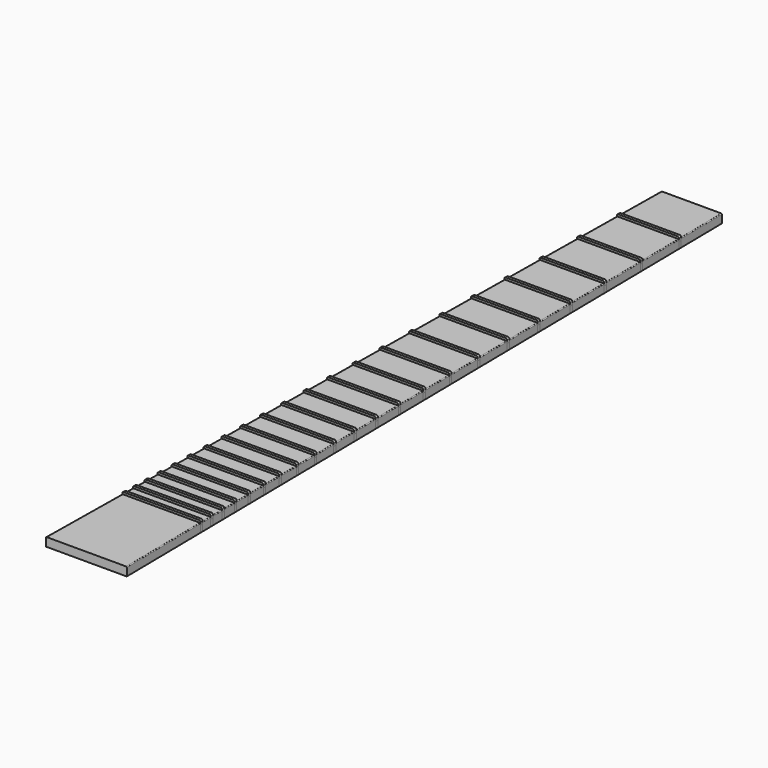
from build123d import *

# Parameters (mm, degrees)
F1_DEPTH = 6
F2_DEPTH = 1.5
F3_R     = 0.5
F5_R     = 1
F5_2_R   = 1
F5_3_R   = 1
F5_4_R   = 1
F5_5_R   = 1
F5_6_R   = 1
F5_7_R   = 1
F5_8_R   = 1
F5_9_R   = 1
F5_10_R  = 1
F5_11_R  = 1
F5_12_R  = 1
F5_13_R  = 1
F5_14_R  = 1
F5_15_R  = 1
F5_16_R  = 1
F5_17_R  = 1
F5_18_R  = 1
F5_19_R  = 1
F5_20_R  = 1
F5_21_R  = 1
F5_22_R  = 1


with BuildPart() as f1:
    # F0 (on Top) → F1 (new body)
    with BuildSketch(Plane.XY):
        Polygon((21, 525), (0, 525), (-21, 525), (-21.48, 489), (0, 489), (21.48, 489), align=None)
        Polygon((0, 489), (-21.48, 489), (-21.5066666667, 487), (0, 487), (21.5066666667, 487), (21.48, 489), align=None)
        Polygon((0, 487), (-21.5066666667, 487), (-21.9333333333, 455), (0, 455), (21.9333333333, 455), (21.5066666667, 487), align=None)
        Polygon((0, 455), (-21.9333333333, 455), (-21.96, 453), (0, 453), (21.96, 453), (21.9333333333, 455), align=None)
        Polygon((0, 453), (-21.96, 453), (-22.36, 423), (0, 423), (22.36, 423), (21.96, 453), align=None)
        Polygon((0, 423), (-22.36, 423), (-22.3866666667, 421), (0, 421), (22.3866666667, 421), (22.36, 423), align=None)
        Polygon((0, 421), (-22.3866666667, 421), (-22.76, 393), (0, 393), (22.76, 393), (22.3866666667, 421), align=None)
        Polygon((0, 393), (-22.76, 393), (-22.7866666667, 391), (0, 391), (22.7866666667, 391), (22.76, 393), align=None)
        Polygon((0, 391), (-22.7866666667, 391), (-23.14, 364.5), (0, 364.5), (23.14, 364.5), (22.7866666667, 391), align=None)
        Polygon((0, 364.5), (-23.14, 364.5), (-23.1666666667, 362.5), (0, 362.5), (23.1666666667, 362.5), (23.14, 364.5), align=None)
        Polygon((0, 362.5), (-23.1666666667, 362.5), (-23.5, 337.5), (0, 337.5), (23.5, 337.5), (23.1666666667, 362.5), align=None)
        Polygon((0, 337.5), (-23.5, 337.5), (-23.5266666667, 335.5), (0, 335.5), (23.5266666667, 335.5), (23.5, 337.5), align=None)
        Polygon((0, 335.5), (-23.5266666667, 335.5), (-23.8466666667, 311.5), (0, 311.5), (23.8466666667, 311.5), (23.5266666667, 335.5), align=None)
        Polygon((0, 311.5), (-23.8466666667, 311.5), (-23.8733333333, 309.5), (0, 309.5), (23.8733333333, 309.5), (23.8466666667, 311.5), align=None)
        Polygon((0, 309.5), (-23.8733333333, 309.5), (-24.18, 286.5), (0, 286.5), (24.18, 286.5), (23.8733333333, 309.5), align=None)
        Polygon((0, 286.5), (-24.18, 286.5), (-24.2066666667, 284.5), (0, 284.5), (24.2066666667, 284.5), (24.18, 286.5), align=None)
        Polygon((0, 284.5), (-24.2066666667, 284.5), (-24.4866666667, 263.5), (0, 263.5), (24.4866666667, 263.5), (24.2066666667, 284.5), align=None)
        Polygon((0, 263.5), (-24.4866666667, 263.5), (-24.5133333333, 261.5), (0, 261.5), (24.5133333333, 261.5), (24.4866666667, 263.5), align=None)
        Polygon((0, 261.5), (-24.5133333333, 261.5), (-24.78, 241.5), (0, 241.5), (24.78, 241.5), (24.5133333333, 261.5), align=None)
        Polygon((0, 241.5), (-24.78, 241.5), (-24.8066666667, 239.5), (0, 239.5), (24.8066666667, 239.5), (24.78, 241.5), align=None)
        Polygon((0, 239.5), (-24.8066666667, 239.5), (-25.0466666667, 221.5), (0, 221.5), (25.0466666667, 221.5), (24.8066666667, 239.5), align=None)
        Polygon((0, 221.5), (-25.0466666667, 221.5), (-25.0733333333, 219.5), (0, 219.5), (25.0733333333, 219.5), (25.0466666667, 221.5), align=None)
        Polygon((0, 219.5), (-25.0733333333, 219.5), (-25.3, 202.5), (0, 202.5), (25.3, 202.5), (25.0733333333, 219.5), align=None)
        Polygon((0, 202.5), (-25.3, 202.5), (-25.3266666667, 200.5), (0, 200.5), (25.3266666667, 200.5), (25.3, 202.5), align=None)
        Polygon((0, 200.5), (-25.3266666667, 200.5), (-25.54, 184.5), (0, 184.5), (25.54, 184.5), (25.3266666667, 200.5), align=None)
        Polygon((0, 184.5), (-25.54, 184.5), (-25.5666666667, 182.5), (0, 182.5), (25.5666666667, 182.5), (25.54, 184.5), align=None)
        Polygon((0, 182.5), (-25.5666666667, 182.5), (-25.7666666667, 167.5), (0, 167.5), (25.7666666667, 167.5), (25.5666666667, 182.5), align=None)
        Polygon((0, 167.5), (-25.7666666667, 167.5), (-25.7933333333, 165.5), (0, 165.5), (25.7933333333, 165.5), (25.7666666667, 167.5), align=None)
        Polygon((0, 165.5), (-25.7933333333, 165.5), (-25.98, 151.5), (0, 151.5), (25.98, 151.5), (25.7933333333, 165.5), align=None)
        Polygon((0, 151.5), (-25.98, 151.5), (-26.0066666667, 149.5), (0, 149.5), (26.0066666667, 149.5), (25.98, 151.5), align=None)
        Polygon((0, 149.5), (-26.0066666667, 149.5), (-26.18, 136.5), (0, 136.5), (26.18, 136.5), (26.0066666667, 149.5), align=None)
        Polygon((0, 136.5), (-26.18, 136.5), (-26.2066666667, 134.5), (0, 134.5), (26.2066666667, 134.5), (26.18, 136.5), align=None)
        Polygon((0, 134.5), (-26.2066666667, 134.5), (-26.3666666667, 122.5), (0, 122.5), (26.3666666667, 122.5), (26.2066666667, 134.5), align=None)
        Polygon((0, 122.5), (-26.3666666667, 122.5), (-26.3933333333, 120.5), (0, 120.5), (26.3933333333, 120.5), (26.3666666667, 122.5), align=None)
        Polygon((0, 120.5), (-26.3933333333, 120.5), (-26.5466666667, 109), (0, 109), (26.5466666667, 109), (26.3933333333, 120.5), align=None)
        Polygon((0, 109), (-26.5466666667, 109), (-26.5733333333, 107), (0, 107), (26.5733333333, 107), (26.5466666667, 109), align=None)
        Polygon((0, 107), (-26.5733333333, 107), (-26.7066666667, 97), (0, 97), (26.7066666667, 97), (26.5733333333, 107), align=None)
        Polygon((0, 97), (-26.7066666667, 97), (-26.7333333333, 95), (0, 95), (26.7333333333, 95), (26.7066666667, 97), align=None)
        Polygon((0, 95), (-26.7333333333, 95), (-26.8533333333, 86), (0, 86), (26.8533333333, 86), (26.7333333333, 95), align=None)
        Polygon((0, 86), (-26.8533333333, 86), (-26.88, 84), (0, 84), (26.88, 84), (26.8533333333, 86), align=None)
        Polygon((0, 84), (-26.88, 84), (-26.9866666667, 76), (0, 76), (26.9866666667, 76), (26.88, 84), align=None)
        Polygon((0, 76), (-26.9866666667, 76), (-27.0133333333, 74), (0, 74), (27.0133333333, 74), (26.9866666667, 76), align=None)
        Polygon((0, 74), (-27.0133333333, 74), (-27.1066666667, 67), (0, 67), (27.1066666667, 67), (27.0133333333, 74), align=None)
        Polygon((0, 67), (-27.1066666667, 67), (-27.1333333333, 65), (0, 65), (27.1333333333, 65), (27.1066666667, 67), align=None)
        Polygon((0, 65), (-27.1333333333, 65), (-28, 0), (0, 0), (28, 0), (27.1333333333, 65), align=None)
    extrude(amount=-F1_DEPTH)

    # F3
    f3_edges = [f1.edges().sort_by_distance(p)[0] for p in [
        (-24.5, 262.5, 0),
        (24.5, 262.5, 0),
    ]]
    fillet(f3_edges, radius=F3_R)


with BuildPart() as f2:
    # F0 (on Top) → F2 (new body, symmetric)
    with BuildSketch(Plane.XY):
        Polygon((0, 489), (-21.48, 489), (-21.5066666667, 487), (0, 487), (21.5066666667, 487), (21.48, 489), align=None)
    extrude(amount=F2_DEPTH, both=True)


with BuildPart() as f2b:
    # F0 (on Top) → F2, piece 2 (new body, symmetric)
    with BuildSketch(Plane.XY):
        Polygon((0, 455), (-21.9333333333, 455), (-21.96, 453), (0, 453), (21.96, 453), (21.9333333333, 455), align=None)
    extrude(amount=F2_DEPTH, both=True)


with BuildPart() as f2c:
    # F0 (on Top) → F2, piece 3 (new body, symmetric)
    with BuildSketch(Plane.XY):
        Polygon((0, 423), (-22.36, 423), (-22.3866666667, 421), (0, 421), (22.3866666667, 421), (22.36, 423), align=None)
    extrude(amount=F2_DEPTH, both=True)


with BuildPart() as f2d:
    # F0 (on Top) → F2, piece 4 (new body, symmetric)
    with BuildSketch(Plane.XY):
        Polygon((0, 393), (-22.76, 393), (-22.7866666667, 391), (0, 391), (22.7866666667, 391), (22.76, 393), align=None)
    extrude(amount=F2_DEPTH, both=True)


with BuildPart() as f2e:
    # F0 (on Top) → F2, piece 5 (new body, symmetric)
    with BuildSketch(Plane.XY):
        Polygon((0, 364.5), (-23.14, 364.5), (-23.1666666667, 362.5), (0, 362.5), (23.1666666667, 362.5), (23.14, 364.5), align=None)
    extrude(amount=F2_DEPTH, both=True)


with BuildPart() as f2f:
    # F0 (on Top) → F2, piece 6 (new body, symmetric)
    with BuildSketch(Plane.XY):
        Polygon((0, 337.5), (-23.5, 337.5), (-23.5266666667, 335.5), (0, 335.5), (23.5266666667, 335.5), (23.5, 337.5), align=None)
    extrude(amount=F2_DEPTH, both=True)


with BuildPart() as f2g:
    # F0 (on Top) → F2, piece 7 (new body, symmetric)
    with BuildSketch(Plane.XY):
        Polygon((0, 311.5), (-23.8466666667, 311.5), (-23.8733333333, 309.5), (0, 309.5), (23.8733333333, 309.5), (23.8466666667, 311.5), align=None)
    extrude(amount=F2_DEPTH, both=True)


with BuildPart() as f2h:
    # F0 (on Top) → F2, piece 8 (new body, symmetric)
    with BuildSketch(Plane.XY):
        Polygon((0, 286.5), (-24.18, 286.5), (-24.2066666667, 284.5), (0, 284.5), (24.2066666667, 284.5), (24.18, 286.5), align=None)
    extrude(amount=F2_DEPTH, both=True)


with BuildPart() as f2i:
    # F0 (on Top) → F2, piece 9 (new body, symmetric)
    with BuildSketch(Plane.XY):
        Polygon((0, 263.5), (-24.4866666667, 263.5), (-24.5133333333, 261.5), (0, 261.5), (24.5133333333, 261.5), (24.4866666667, 263.5), align=None)
    extrude(amount=F2_DEPTH, both=True)


with BuildPart() as f2j:
    # F0 (on Top) → F2, piece 10 (new body, symmetric)
    with BuildSketch(Plane.XY):
        Polygon((0, 241.5), (-24.78, 241.5), (-24.8066666667, 239.5), (0, 239.5), (24.8066666667, 239.5), (24.78, 241.5), align=None)
    extrude(amount=F2_DEPTH, both=True)


with BuildPart() as f2k:
    # F0 (on Top) → F2, piece 11 (new body, symmetric)
    with BuildSketch(Plane.XY):
        Polygon((0, 221.5), (-25.0466666667, 221.5), (-25.0733333333, 219.5), (0, 219.5), (25.0733333333, 219.5), (25.0466666667, 221.5), align=None)
    extrude(amount=F2_DEPTH, both=True)


with BuildPart() as f2l:
    # F0 (on Top) → F2, piece 12 (new body, symmetric)
    with BuildSketch(Plane.XY):
        Polygon((0, 202.5), (-25.3, 202.5), (-25.3266666667, 200.5), (0, 200.5), (25.3266666667, 200.5), (25.3, 202.5), align=None)
    extrude(amount=F2_DEPTH, both=True)


with BuildPart() as f2m:
    # F0 (on Top) → F2, piece 13 (new body, symmetric)
    with BuildSketch(Plane.XY):
        Polygon((0, 184.5), (-25.54, 184.5), (-25.5666666667, 182.5), (0, 182.5), (25.5666666667, 182.5), (25.54, 184.5), align=None)
    extrude(amount=F2_DEPTH, both=True)


with BuildPart() as f2n:
    # F0 (on Top) → F2, piece 14 (new body, symmetric)
    with BuildSketch(Plane.XY):
        Polygon((0, 167.5), (-25.7666666667, 167.5), (-25.7933333333, 165.5), (0, 165.5), (25.7933333333, 165.5), (25.7666666667, 167.5), align=None)
    extrude(amount=F2_DEPTH, both=True)


with BuildPart() as f2o:
    # F0 (on Top) → F2, piece 15 (new body, symmetric)
    with BuildSketch(Plane.XY):
        Polygon((0, 151.5), (-25.98, 151.5), (-26.0066666667, 149.5), (0, 149.5), (26.0066666667, 149.5), (25.98, 151.5), align=None)
    extrude(amount=F2_DEPTH, both=True)


with BuildPart() as f2p:
    # F0 (on Top) → F2, piece 16 (new body, symmetric)
    with BuildSketch(Plane.XY):
        Polygon((0, 136.5), (-26.18, 136.5), (-26.2066666667, 134.5), (0, 134.5), (26.2066666667, 134.5), (26.18, 136.5), align=None)
    extrude(amount=F2_DEPTH, both=True)


with BuildPart() as f2q:
    # F0 (on Top) → F2, piece 17 (new body, symmetric)
    with BuildSketch(Plane.XY):
        Polygon((0, 122.5), (-26.3666666667, 122.5), (-26.3933333333, 120.5), (0, 120.5), (26.3933333333, 120.5), (26.3666666667, 122.5), align=None)
    extrude(amount=F2_DEPTH, both=True)


with BuildPart() as f2r:
    # F0 (on Top) → F2, piece 18 (new body, symmetric)
    with BuildSketch(Plane.XY):
        Polygon((0, 109), (-26.5466666667, 109), (-26.5733333333, 107), (0, 107), (26.5733333333, 107), (26.5466666667, 109), align=None)
    extrude(amount=F2_DEPTH, both=True)


with BuildPart() as f2s:
    # F0 (on Top) → F2, piece 19 (new body, symmetric)
    with BuildSketch(Plane.XY):
        Polygon((0, 97), (-26.7066666667, 97), (-26.7333333333, 95), (0, 95), (26.7333333333, 95), (26.7066666667, 97), align=None)
    extrude(amount=F2_DEPTH, both=True)


with BuildPart() as f2t:
    # F0 (on Top) → F2, piece 20 (new body, symmetric)
    with BuildSketch(Plane.XY):
        Polygon((0, 67), (-27.1066666667, 67), (-27.1333333333, 65), (0, 65), (27.1333333333, 65), (27.1066666667, 67), align=None)
    extrude(amount=F2_DEPTH, both=True)


with BuildPart() as f2u:
    # F0 (on Top) → F2, piece 21 (new body, symmetric)
    with BuildSketch(Plane.XY):
        Polygon((0, 76), (-26.9866666667, 76), (-27.0133333333, 74), (0, 74), (27.0133333333, 74), (26.9866666667, 76), align=None)
    extrude(amount=F2_DEPTH, both=True)


with BuildPart() as f2v:
    # F0 (on Top) → F2, piece 22 (new body, symmetric)
    with BuildSketch(Plane.XY):
        Polygon((0, 86), (-26.8533333333, 86), (-26.88, 84), (0, 84), (26.88, 84), (26.8533333333, 86), align=None)
    extrude(amount=F2_DEPTH, both=True)


with BuildPart() as f1_1:
    add(f1.part)

    # F4: cut F2t, F2u, F2v, F2s, F2r, F2q, F2p, F2o, F2n, F2m, F2l, F2k, F2j, F2i, F2h, F2g, F2f, F2e, F2d, F2c, F2b, F2
    add(f2t.part, mode=Mode.SUBTRACT)
    add(f2u.part, mode=Mode.SUBTRACT)
    add(f2v.part, mode=Mode.SUBTRACT)
    add(f2s.part, mode=Mode.SUBTRACT)
    add(f2r.part, mode=Mode.SUBTRACT)
    add(f2q.part, mode=Mode.SUBTRACT)
    add(f2p.part, mode=Mode.SUBTRACT)
    add(f2o.part, mode=Mode.SUBTRACT)
    add(f2n.part, mode=Mode.SUBTRACT)
    add(f2m.part, mode=Mode.SUBTRACT)
    add(f2l.part, mode=Mode.SUBTRACT)
    add(f2k.part, mode=Mode.SUBTRACT)
    add(f2j.part, mode=Mode.SUBTRACT)
    add(f2i.part, mode=Mode.SUBTRACT)
    add(f2h.part, mode=Mode.SUBTRACT)
    add(f2g.part, mode=Mode.SUBTRACT)
    add(f2f.part, mode=Mode.SUBTRACT)
    add(f2e.part, mode=Mode.SUBTRACT)
    add(f2d.part, mode=Mode.SUBTRACT)
    add(f2c.part, mode=Mode.SUBTRACT)
    add(f2b.part, mode=Mode.SUBTRACT)
    add(f2.part, mode=Mode.SUBTRACT)


with BuildPart() as f2_1:
    add(f2.part)

    # F5
    f5_edges = [f2_1.edges().sort_by_distance(p)[0] for p in [
        (-21.493333, 488, 1.5),
        (21.493333, 488, 1.5),
    ]]
    fillet(f5_edges, radius=F5_R)


with BuildPart() as f2b_1:
    add(f2b.part)

    # F5#2
    f5_2_edges = [f2b_1.edges().sort_by_distance(p)[0] for p in [
        (21.946667, 454, 1.5),
        (-21.946667, 454, 1.5),
    ]]
    fillet(f5_2_edges, radius=F5_2_R)


with BuildPart() as f2c_1:
    add(f2c.part)

    # F5#3
    f5_3_edges = [f2c_1.edges().sort_by_distance(p)[0] for p in [
        (-22.373333, 422, 1.5),
        (22.373333, 422, 1.5),
    ]]
    fillet(f5_3_edges, radius=F5_3_R)


with BuildPart() as f2d_1:
    add(f2d.part)

    # F5#4
    f5_4_edges = [f2d_1.edges().sort_by_distance(p)[0] for p in [
        (-22.773333, 392, 1.5),
        (22.773333, 392, 1.5),
    ]]
    fillet(f5_4_edges, radius=F5_4_R)


with BuildPart() as f2e_1:
    add(f2e.part)

    # F5#5
    f5_5_edges = [f2e_1.edges().sort_by_distance(p)[0] for p in [
        (23.153333, 363.5, 1.5),
        (-23.153333, 363.5, 1.5),
    ]]
    fillet(f5_5_edges, radius=F5_5_R)


with BuildPart() as f2f_1:
    add(f2f.part)

    # F5#6
    f5_6_edges = [f2f_1.edges().sort_by_distance(p)[0] for p in [
        (-23.513333, 336.5, 1.5),
        (23.513333, 336.5, 1.5),
    ]]
    fillet(f5_6_edges, radius=F5_6_R)


with BuildPart() as f2g_1:
    add(f2g.part)

    # F5#7
    f5_7_edges = [f2g_1.edges().sort_by_distance(p)[0] for p in [
        (23.86, 310.5, 1.5),
        (-23.86, 310.5, 1.5),
    ]]
    fillet(f5_7_edges, radius=F5_7_R)


with BuildPart() as f2h_1:
    add(f2h.part)

    # F5#8
    f5_8_edges = [f2h_1.edges().sort_by_distance(p)[0] for p in [
        (-24.193333, 285.5, 1.5),
        (24.193333, 285.5, 1.5),
    ]]
    fillet(f5_8_edges, radius=F5_8_R)


with BuildPart() as f2i_1:
    add(f2i.part)

    # F5#9
    f5_9_edges = [f2i_1.edges().sort_by_distance(p)[0] for p in [
        (24.5, 262.5, 1.5),
        (-24.5, 262.5, 1.5),
    ]]
    fillet(f5_9_edges, radius=F5_9_R)


with BuildPart() as f2j_1:
    add(f2j.part)

    # F5#10
    f5_10_edges = [f2j_1.edges().sort_by_distance(p)[0] for p in [
        (-24.793333, 240.5, 1.5),
        (24.793333, 240.5, 1.5),
    ]]
    fillet(f5_10_edges, radius=F5_10_R)


with BuildPart() as f2k_1:
    add(f2k.part)

    # F5#11
    f5_11_edges = [f2k_1.edges().sort_by_distance(p)[0] for p in [
        (25.06, 220.5, 1.5),
        (-25.06, 220.5, 1.5),
    ]]
    fillet(f5_11_edges, radius=F5_11_R)


with BuildPart() as f2l_1:
    add(f2l.part)

    # F5#12
    f5_12_edges = [f2l_1.edges().sort_by_distance(p)[0] for p in [
        (-25.313333, 201.5, 1.5),
        (25.313333, 201.5, 1.5),
    ]]
    fillet(f5_12_edges, radius=F5_12_R)


with BuildPart() as f2m_1:
    add(f2m.part)

    # F5#13
    f5_13_edges = [f2m_1.edges().sort_by_distance(p)[0] for p in [
        (-25.553333, 183.5, 1.5),
        (25.553333, 183.5, 1.5),
    ]]
    fillet(f5_13_edges, radius=F5_13_R)


with BuildPart() as f2n_1:
    add(f2n.part)

    # F5#14
    f5_14_edges = [f2n_1.edges().sort_by_distance(p)[0] for p in [
        (25.78, 166.5, 1.5),
        (-25.78, 166.5, 1.5),
    ]]
    fillet(f5_14_edges, radius=F5_14_R)


with BuildPart() as f2o_1:
    add(f2o.part)

    # F5#15
    f5_15_edges = [f2o_1.edges().sort_by_distance(p)[0] for p in [
        (-25.993333, 150.5, 1.5),
        (25.993333, 150.5, 1.5),
    ]]
    fillet(f5_15_edges, radius=F5_15_R)


with BuildPart() as f2p_1:
    add(f2p.part)

    # F5#16
    f5_16_edges = [f2p_1.edges().sort_by_distance(p)[0] for p in [
        (26.193333, 135.5, 1.5),
        (-26.193333, 135.5, 1.5),
    ]]
    fillet(f5_16_edges, radius=F5_16_R)


with BuildPart() as f2q_1:
    add(f2q.part)

    # F5#17
    f5_17_edges = [f2q_1.edges().sort_by_distance(p)[0] for p in [
        (-26.38, 121.5, 1.5),
        (26.38, 121.5, 1.5),
    ]]
    fillet(f5_17_edges, radius=F5_17_R)


with BuildPart() as f2r_1:
    add(f2r.part)

    # F5#18
    f5_18_edges = [f2r_1.edges().sort_by_distance(p)[0] for p in [
        (26.56, 108, 1.5),
        (-26.56, 108, 1.5),
    ]]
    fillet(f5_18_edges, radius=F5_18_R)


with BuildPart() as f2s_1:
    add(f2s.part)

    # F5#19
    f5_19_edges = [f2s_1.edges().sort_by_distance(p)[0] for p in [
        (-26.72, 96, 1.5),
        (26.72, 96, 1.5),
    ]]
    fillet(f5_19_edges, radius=F5_19_R)


with BuildPart() as f2v_1:
    add(f2v.part)

    # F5#20
    f5_20_edges = [f2v_1.edges().sort_by_distance(p)[0] for p in [
        (26.866667, 85, 1.5),
        (-26.866667, 85, 1.5),
    ]]
    fillet(f5_20_edges, radius=F5_20_R)


with BuildPart() as f2u_1:
    add(f2u.part)

    # F5#21
    f5_21_edges = [f2u_1.edges().sort_by_distance(p)[0] for p in [
        (27, 75, 1.5),
        (-27, 75, 1.5),
    ]]
    fillet(f5_21_edges, radius=F5_21_R)


with BuildPart() as f2t_1:
    add(f2t.part)

    # F5#22
    f5_22_edges = [f2t_1.edges().sort_by_distance(p)[0] for p in [
        (27.12, 66, 1.5),
        (-27.12, 66, 1.5),
    ]]
    fillet(f5_22_edges, radius=F5_22_R)


solid = Compound([f1_1.part, f2_1.part, f2b_1.part, f2c_1.part, f2d_1.part, f2e_1.part, f2f_1.part, f2g_1.part, f2h_1.part, f2i_1.part, f2j_1.part, f2k_1.part, f2l_1.part, f2m_1.part, f2n_1.part, f2o_1.part, f2p_1.part, f2q_1.part, f2r_1.part, f2s_1.part, f2v_1.part, f2u_1.part, f2t_1.part])
